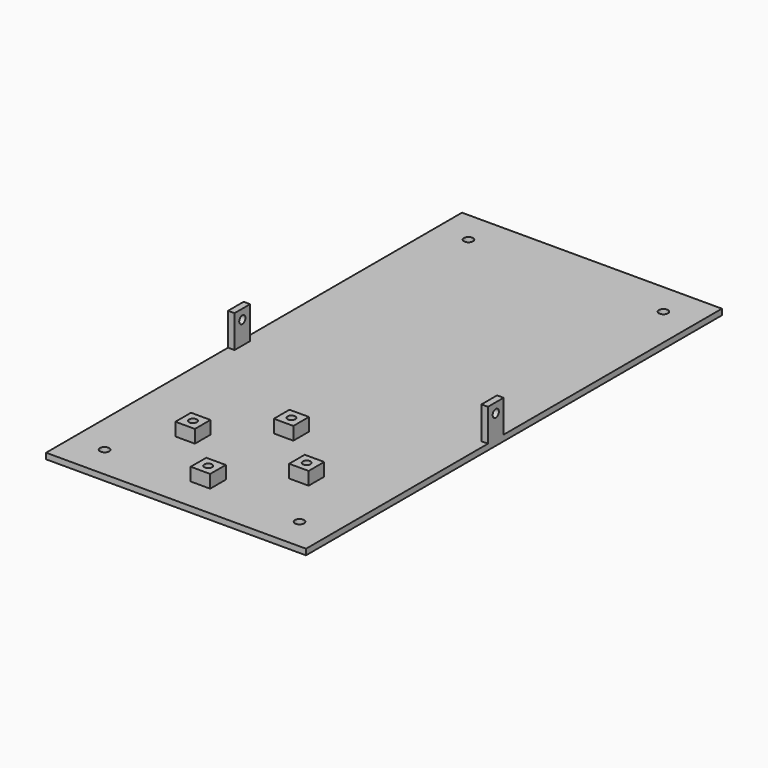
from build123d import *

# Parameters (mm, degrees)
F0_R     = 7
F0_W     = 30
F0_H     = 30
F1_DEPTH = 9
F0_R_2   = 6
F2_DEPTH = 29
F0_W_2   = 10
F3_DEPTH = 59
F4_R     = 6
F5_DEPTH = 486


with BuildPart() as f1:
    # F0 (on Top) → F1 (new body)
    with BuildSketch(Plane.XY):
        Polygon((0, 350), (0, 0), (400, 0), (400, 350), (390, 350), (390, 380), (400, 380), (400, 800), (0, 800), (0, 380), (10, 380), (10, 350), align=None)
        with Locations((50, 50)):
            Circle(F0_R, mode=Mode.SUBTRACT)
        with Locations((197.5, 65)):
            Rectangle(F0_W, F0_H, mode=Mode.SUBTRACT)
        with Locations((110, 145)):
            Rectangle(F0_W, F0_H, mode=Mode.SUBTRACT)
        with Locations((197.5, 225)):
            Rectangle(F0_W, F0_H, mode=Mode.SUBTRACT)
        with Locations((285, 145)):
            Rectangle(F0_W, F0_H, mode=Mode.SUBTRACT)
        with Locations((350, 50)):
            Circle(F0_R, mode=Mode.SUBTRACT)
        with Locations((50, 750)):
            Circle(F0_R, mode=Mode.SUBTRACT)
        with Locations((350, 750)):
            Circle(F0_R, mode=Mode.SUBTRACT)
    extrude(amount=F1_DEPTH)

    # F0 (on Top) → F2 (join)
    with BuildSketch(Plane.XY):
        with Locations((110, 145)):
            Rectangle(F0_W, F0_H)
        with Locations((110, 145)):
            Circle(F0_R_2, mode=Mode.SUBTRACT)
        with Locations((197.5, 225)):
            Rectangle(F0_W, F0_H)
        with Locations((197.5, 225)):
            Circle(F0_R_2, mode=Mode.SUBTRACT)
        with Locations((197.5, 65)):
            Rectangle(F0_W, F0_H)
        with Locations((197.5, 65)):
            Circle(F0_R_2, mode=Mode.SUBTRACT)
        with Locations((285, 145)):
            Rectangle(F0_W, F0_H)
        with Locations((285, 145)):
            Circle(F0_R_2, mode=Mode.SUBTRACT)
    extrude(amount=F2_DEPTH)

    # F0 (on Top) → F3 (join)
    with BuildSketch(Plane.XY):
        with Locations((5, 365)):
            Rectangle(F0_W_2, F0_H)
        with Locations((395, 365)):
            Rectangle(F0_W_2, F0_H)
    extrude(amount=F3_DEPTH)

    # F4 (on Right) → F5 (cut)
    with BuildSketch(Plane.YZ):
        with Locations((365, 44)):
            Circle(F4_R)
    extrude(amount=F5_DEPTH, mode=Mode.SUBTRACT)


solid = f1.part
